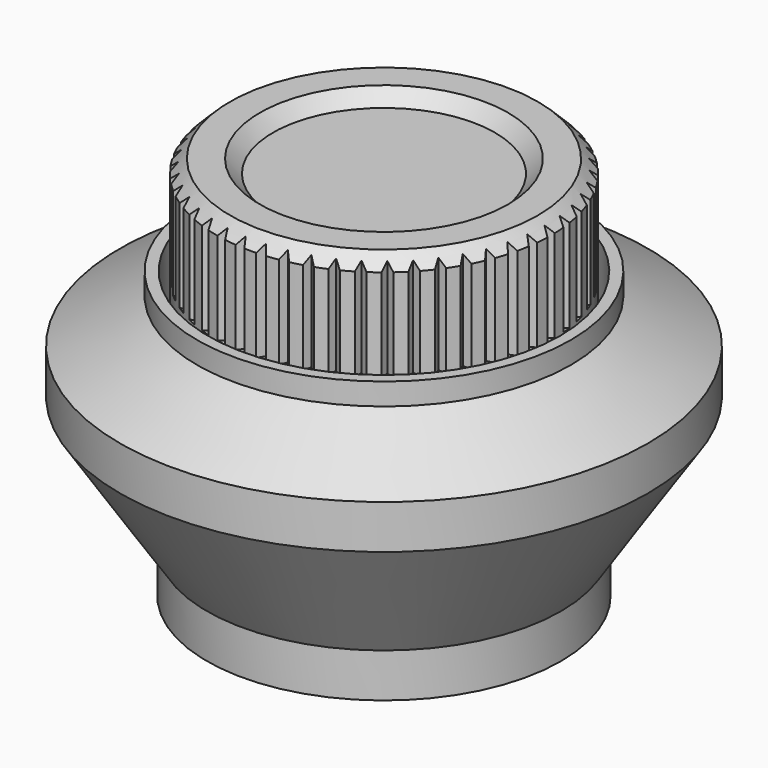
from build123d import *

# Parameters (mm, degrees)
BOX_W                 = 2
BOX_H                 = 2
BOX_DEPTH             = 4
CHAMFER_SIZE          = 0.5
CLONE_PLACEMENT_ANGLE = 180
PAD001_DEPTH          = 6
ARRAY_COUNT           = 50
SKETCH002_W           = 6
SKETCH002_H           = 0.8
PAD_DEPTH             = 0.8


with BuildPart() as chamfer_anti_slip:
    # Box → Box (new body)
    with BuildSketch(Plane(origin=(-1, 2.7, -4.2), x_dir=(1, 0, 0), z_dir=(0, 0, 1))):
        with Locations((1, 1)):
            Rectangle(BOX_W, BOX_H)
    extrude(amount=BOX_DEPTH)

    # Chamfer
    chamfer_edges = [chamfer_anti_slip.edges().sort_by_distance(p)[0] for p in [
        (0, 2.7, -4.2),
    ]]
    chamfer(chamfer_edges, length=CHAMFER_SIZE)


with BuildPart() as revolution_outer:
    # Sketch → Revolution (revolve)
    with BuildSketch(Plane.XZ):
        Polygon((12, 2), (12, 0), (8.049478, -6), (8.049478, -8), (3.45, -8), (3.45, 0), (8, 0), (8, 4), (8, 5), (8.5, 5), (8.5, 4), align=None)
    revolve(axis=Axis((0, 0, 0), (0, 0, 1)))


with BuildPart() as fusion_outer:
    # Clone base: copy of Chamfer (anti-slip)
    add(chamfer_anti_slip.part)


with BuildPart() as fusion_outer_1:
    # Clone placement: moved
    add(fusion_outer.part.rotate(Axis((0, 0, 0), (0, 0, 1)), CLONE_PLACEMENT_ANGLE))

    # Fusion: union Chamfer (anti-slip), Revolution (outer)
    add(chamfer_anti_slip.part)
    add(revolution_outer.part)


with BuildPart() as array_inner_grip:
    # Sketch003 → Pad001 (new body)
    with BuildSketch(Plane.XY):
        Polygon((7.782351, 0.337746), (7.3, 0), (7.782351, -0.337746), align=None)
    extrude(amount=PAD001_DEPTH)

    # Array: Array (inner grip) ×50 about axis
    array_axis = Axis((0, 0, 0), (0, 0, 1))


with BuildPart() as array_inner_grip_1:
    add(array_inner_grip.part)
    for i in range(1, ARRAY_COUNT):
        add(array_inner_grip.part.rotate(array_axis, i * 360 / ARRAY_COUNT))


with BuildPart() as array_inner_grip_2:
    # Array placement: moved
    add(array_inner_grip_1.part.moved(Location((0, 0, 4.7))))


with BuildPart() as revolution_inner:
    # Sketch001 → Revolution001 (revolve)
    with BuildSketch(Plane.XZ):
        Polygon((2.55, 0.5), (7.6, 0.5), (7.6, 8.9), (7, 9.5), (5.644113, 9.5), (5.044113, 8.9), (0, 8.9), (0, 7), (2.57, 7), (2.82, 7), (2.82, 6), (2.55, 6), align=None)
    revolve(axis=Axis((0, 0, 0), (0, 0, 1)))


with BuildPart() as cut_inner:
    # Sketch002 → Pad (new body)
    with BuildSketch(Plane.XY.offset(7)):
        Rectangle(SKETCH002_W, SKETCH002_H)
    extrude(amount=-PAD_DEPTH)

    # Fusion001: union Revolution (inner)
    add(revolution_inner.part)

    # Cut: cut Array (inner grip)
    add(array_inner_grip_2.part, mode=Mode.SUBTRACT)


solid = Compound([fusion_outer_1.part, cut_inner.part])
